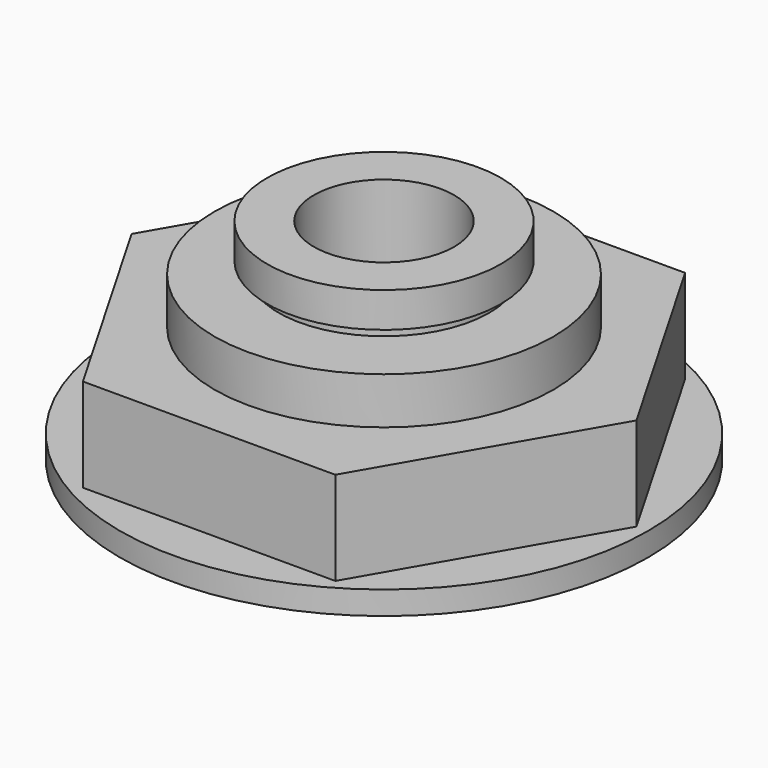
from build123d import *

# Parameters (mm, degrees)
F0_R      = 11.3
F1_DEPTH  = 1
F2_DEPTH  = 5
F3_R      = 7.25
F4_DEPTH  = 2
F5_R      = 4.5
F6_DEPTH  = 0.5
F7_R      = 5
F8_DEPTH  = 1.5
F9_R      = 3
F10_DEPTH = 13.7


with BuildPart() as f1:
    # F0 (on Top) → F1 (new body)
    with BuildSketch(Plane.XY):
        Circle(F0_R)
        Polygon((10.8, 0), (5.4, -9.353074), (-5.4, -9.353074), (-10.8, 0), (-5.4, 9.353074), (5.4, 9.353074), align=None, mode=Mode.SUBTRACT)
        Polygon((-5.4, -9.353074), (5.4, -9.353074), (10.8, 0), (5.4, 9.353074), (-5.4, 9.353074), (-10.8, 0), align=None)
    extrude(amount=F1_DEPTH)

    # F0 (on Top) → F2 (join)
    with BuildSketch(Plane.XY):
        Polygon((-5.4, -9.353074), (5.4, -9.353074), (10.8, 0), (5.4, 9.353074), (-5.4, 9.353074), (-10.8, 0), align=None)
    extrude(amount=F2_DEPTH)

    # F3 (on face) → F4 (join)
    with BuildSketch(Plane.XY.offset(5)):
        Circle(F3_R)
    extrude(amount=F4_DEPTH)

    # F5 (on face) → F6 (join)
    with BuildSketch(Plane.XY.offset(7)):
        Circle(F5_R)
    extrude(amount=F6_DEPTH)

    # F7 (on face) → F8 (join)
    with BuildSketch(Plane.XY.offset(7.5)):
        Circle(F7_R)
    extrude(amount=F8_DEPTH)

    # F9 (on face) → F10 (cut)
    with BuildSketch(Plane.XY.offset(9)):
        Circle(F9_R)
    extrude(amount=-F10_DEPTH, mode=Mode.SUBTRACT)


solid = f1.part
